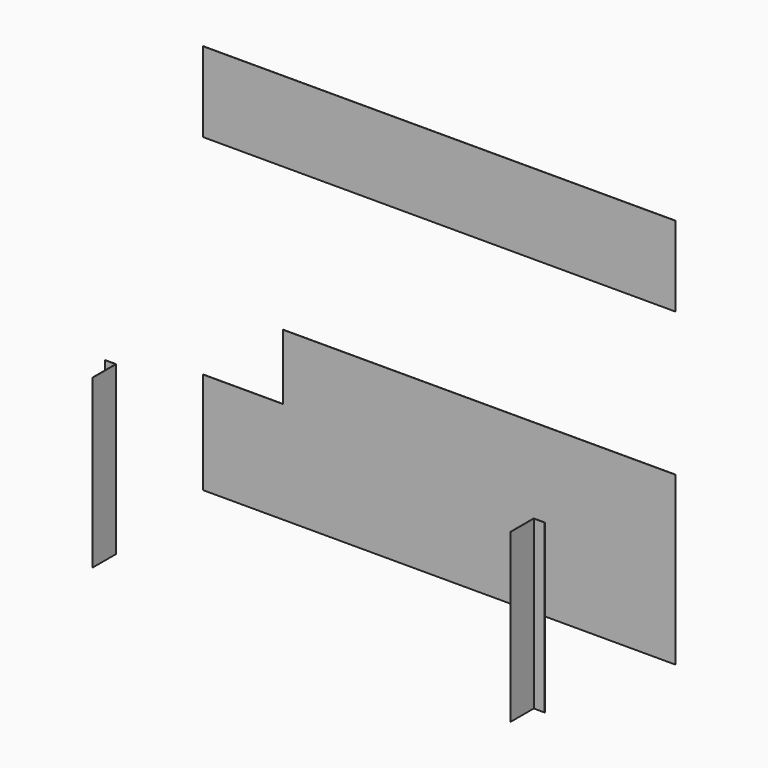
from build123d import *

# Parameters (mm, degrees)
BOX020_W     = 1651
BOX020_H     = 0.762
BOX020_DEPTH = 279.4
BOX021_W     = 1371.6
BOX021_H     = 0.762
BOX021_DEPTH = 584.2
BOX022_W     = 279.4
BOX022_H     = 0.762
BOX022_DEPTH = 355.6
BOX023_W     = 38.1
BOX023_H     = 0.762
BOX023_DEPTH = 584.2
BOX025_W     = 0.762
BOX025_H     = 101.6
BOX025_DEPTH = 584.2
BOX026_W     = 38.1
BOX026_H     = 0.762
BOX026_DEPTH = 584.2
BOX027_W     = 0.762
BOX027_H     = 101.6
BOX027_DEPTH = 584.2


with BuildPart() as cube009:
    # Box020 → Box020 (new body)
    with BuildSketch(Plane(origin=(295.402, -0.762, 1085.85), x_dir=(1, 0, 0), z_dir=(0, 0, 1))):
        with Locations((825.5, 0.381)):
            Rectangle(BOX020_W, BOX020_H)
    extrude(amount=BOX020_DEPTH)


with BuildPart() as cube010:
    # Box021 → Box021 (new body)
    with BuildSketch(Plane(origin=(574.802, -0.762, 0), x_dir=(1, 0, 0), z_dir=(0, 0, 1))):
        with Locations((685.8, 0.381)):
            Rectangle(BOX021_W, BOX021_H)
    extrude(amount=BOX021_DEPTH)


with BuildPart() as cube011:
    # Box022 → Box022 (new body)
    with BuildSketch(Plane(origin=(295.402, -0.762, 0), x_dir=(1, 0, 0), z_dir=(0, 0, 1))):
        with Locations((139.7, 0.381)):
            Rectangle(BOX022_W, BOX022_H)
    extrude(amount=BOX022_DEPTH)


with BuildPart() as cube012:
    # Box023 → Box023 (new body)
    with BuildSketch(Plane(origin=(308.102, -444.5, 0), x_dir=(1, 0, 0), z_dir=(0, 0, 1))):
        with Locations((19.05, 0.381)):
            Rectangle(BOX023_W, BOX023_H)
    extrude(amount=BOX023_DEPTH)


with BuildPart() as cube014:
    # Box025 → Box025 (new body)
    with BuildSketch(Plane(origin=(346.202, -546.1, 0), x_dir=(1, 0, 0), z_dir=(0, 0, 1))):
        with Locations((0.381, 50.8)):
            Rectangle(BOX025_W, BOX025_H)
    extrude(amount=BOX025_DEPTH)


with BuildPart() as cube015:
    # Box026 → Box026 (new body)
    with BuildSketch(Plane(origin=(1806.702, -444.5, 0), x_dir=(1, 0, 0), z_dir=(0, 0, 1))):
        with Locations((19.05, 0.381)):
            Rectangle(BOX026_W, BOX026_H)
    extrude(amount=BOX026_DEPTH)


with BuildPart() as wallprotection:
    # Box027 → Box027 (new body)
    with BuildSketch(Plane(origin=(1805.94, -546.1, 0), x_dir=(1, 0, 0), z_dir=(0, 0, 1))):
        with Locations((0.381, 50.8)):
            Rectangle(BOX027_W, BOX027_H)
    extrude(amount=BOX027_DEPTH)

    # Fusion006: union Cube009, Cube010, Cube011, Cube012, Cube014, Cube015
    add(cube009.part)
    add(cube010.part)
    add(cube011.part)
    add(cube012.part)
    add(cube014.part)
    add(cube015.part)


solid = wallprotection.part
